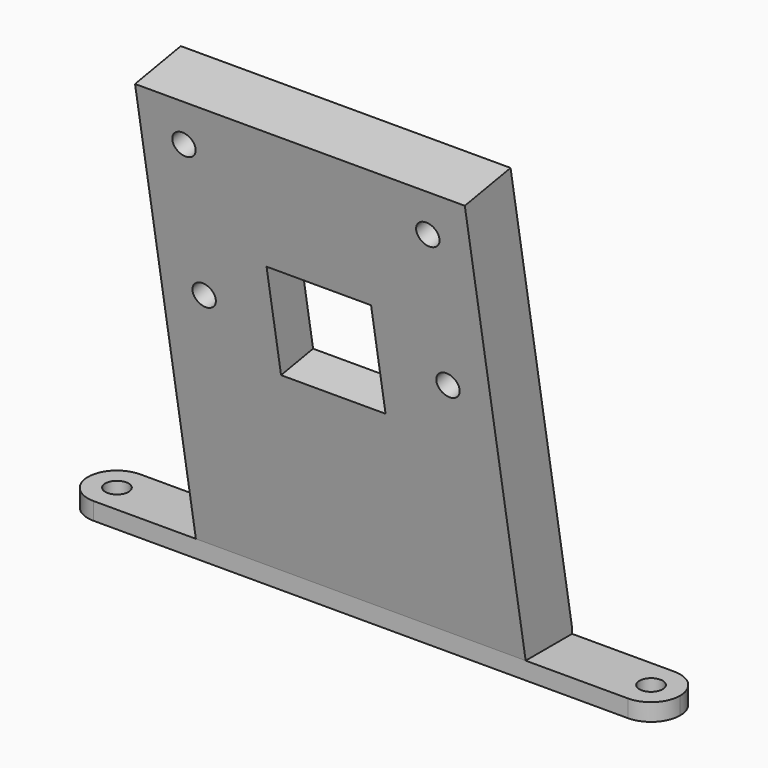
from build123d import *

# Parameters (mm, degrees)
F0_R     = 1
F1_DEPTH = 1.5
F4_DEPTH = 1.5
F5_DEPTH = 5
F3_W     = 4.5
F3_H     = 4.5
F3_R     = 1
F6_DEPTH = 3.5
F7_W     = 32.583123
F7_H     = 2.642157
F8_DEPTH = 14.8


with BuildPart() as f1:
    # F0 (on Top) → F1 (new body)
    with BuildSketch(Plane.XY):
        with BuildLine():
            ThreePointArc((-20.5, 0), (-21.232233, 1.767767), (-23, 2.5))
            ThreePointArc((-23, 2.5), (-25.5, 0), (-23, -2.5))
            ThreePointArc((-23, -2.5), (-21.232233, -1.767767), (-20.5, 0))
        make_face()
        with Locations((-23, 0)):
            Circle(F0_R, mode=Mode.SUBTRACT)
        with BuildLine():
            Line((23, 2.5), (-23, 2.5))
            ThreePointArc((-23, 2.5), (-21.232233, 1.767767), (-20.5, 0))
            ThreePointArc((-20.5, 0), (-21.232233, -1.767767), (-23, -2.5))
            Line((-23, -2.5), (23, -2.5))
            ThreePointArc((23, -2.5), (20.5, 0), (23, 2.5))
        make_face()
        with BuildLine():
            ThreePointArc((25.5, 0), (24.767767, 1.767767), (23, 2.5))
            ThreePointArc((23, 2.5), (20.5, 0), (23, -2.5))
            ThreePointArc((23, -2.5), (24.767767, -1.767767), (25.5, 0))
        make_face()
        with Locations((23, 0)):
            Circle(F0_R, mode=Mode.SUBTRACT)
    extrude(amount=F1_DEPTH)

    # F3 (on face) → F4 (join)
    with BuildSketch(Plane(origin=(0, -2.168101, -0.382295), x_dir=(1, 0, 0), z_dir=(0, -0.984808, -0.173648))):
        Polygon((8.2, 38.13412), (-8.2, 38.13412), (-8.2, 33.63412), (-12.7, 33.63412), (-12.7, 25.68412), (-8.2, 25.68412), (-8.2, 21.18412), (-12.7, 21.18412), (-12.7, 13.73412), (-8.25, 13.73412), (-8.25, 12.23412), (-12.7, 12.23412), (-12.7, 0.43412), (12.7, 0.43412), (12.7, 12.23412), (8.25, 12.23412), (8.25, 13.73412), (12.7, 13.73412), (12.7, 21.18412), (8.2, 21.18412), (8.2, 25.68412), (12.7, 25.68412), (12.7, 33.63412), (8.2, 33.63412), align=None)
        Polygon((-6.5, 27.93412), (-4.5, 27.93412), (4.5, 27.93412), (6.5, 27.93412), (6.5, 16.93412), (-6.5, 16.93412), align=None, mode=Mode.SUBTRACT)
    extrude(amount=-F4_DEPTH)

    # F3 (on face) → F5 (join)
    with BuildSketch(Plane(origin=(0, -2.168101, -0.382295), x_dir=(1, 0, 0), z_dir=(0, -0.984808, -0.173648))):
        Polygon((-12.7, 33.63412), (-12.7, 38.13412), (-8.2, 38.13412), (8.2, 38.13412), (12.7, 38.13412), (12.7, 33.63412), (12.7, 25.68412), (12.7, 21.18412), (12.7, 13.73412), (8.25, 13.73412), (8.25, 12.23412), (12.7, 12.23412), (12.7, 0.43412), (14.2, 0.43412), (14.2, 39.63412), (-14.2, 39.63412), (-14.2, 0.43412), (-12.7, 0.43412), (-12.7, 12.23412), (-8.25, 12.23412), (-8.25, 13.73412), (-12.7, 13.73412), (-12.7, 21.18412), (-12.7, 25.68412), align=None)
    extrude(amount=-F5_DEPTH)

    # F3 (on face) → F6 (join)
    with BuildSketch(Plane(origin=(0, -2.168101, -0.382295), x_dir=(1, 0, 0), z_dir=(0, -0.984808, -0.173648))):
        with Locations((-10.45, 35.88412)):
            Rectangle(F3_W, F3_H)
        with Locations((-10.5, 35.93412)):
            Circle(F3_R, mode=Mode.SUBTRACT)
        with Locations((10.45, 35.88412)):
            Rectangle(F3_W, F3_H)
        with Locations((10.5, 35.93412)):
            Circle(F3_R, mode=Mode.SUBTRACT)
        with Locations((10.45, 23.43412)):
            Rectangle(F3_W, F3_H)
        with Locations((10.5, 23.43412)):
            Circle(F3_R, mode=Mode.SUBTRACT)
        with Locations((-10.45, 23.43412)):
            Rectangle(F3_W, F3_H)
        with Locations((-10.5, 23.43412)):
            Circle(F3_R, mode=Mode.SUBTRACT)
        Polygon((-4.5, 18.93412), (-4.5, 27.93412), (-6.5, 27.93412), (-6.5, 16.93412), (6.5, 16.93412), (6.5, 27.93412), (4.5, 27.93412), (4.5, 18.93412), align=None)
    extrude(amount=-F6_DEPTH)

    # F7 (on face) → F8 (cut)
    with BuildSketch(Plane(origin=(0, 0, 0), x_dir=(1, 0, 0), z_dir=(0, 0, -1))):
        with Locations((-0.506625, -3.821079)):
            Rectangle(F7_W, F7_H)
    extrude(amount=-F8_DEPTH, mode=Mode.SUBTRACT)


solid = f1.part
